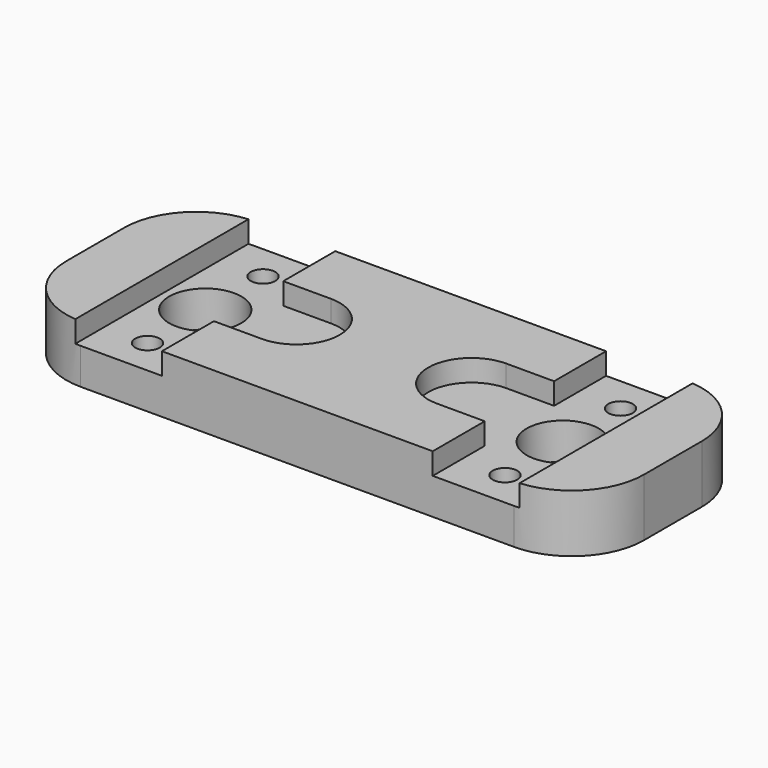
from build123d import *

# Parameters (mm, degrees)
F0_W     = 80
F0_H     = 30
F1_DEPTH = 4
F3_DEPTH = 3
F4_R     = 5
F4_R_2   = 1.7
F5_DEPTH = 5.001
F6_R     = 10


with BuildPart() as f1:
    # F0 (on Top) → F1 (new body, symmetric)
    with BuildSketch(Plane.XY):
        Rectangle(F0_W, F0_H)
    extrude(amount=F1_DEPTH, both=True)

    # F2 (on face) → F3 (cut)
    with BuildSketch(Plane.XY.offset(4)):
        with BuildLine():
            Line((-18.75, 15), (-30.75, 15))
            Line((-30.75, 15), (-30.75, 7.605669))
            Line((-30.75, 7.605669), (-30.75, -15))
            Line((-30.75, -15), (-18.75, -15))
            Line((-18.75, -15), (-18.75, -6))
            Line((-18.75, -6), (-12.123867, -6))
            ThreePointArc((-12.123867, -6), (-6.123867, 0), (-12.123867, 6))
            Line((-12.123867, 6), (-18.75, 6))
            Line((-18.75, 6), (-18.75, 15))
        make_face()
        with BuildLine():
            Line((30.75, -15), (30.75, 15))
            Line((30.75, 15), (18.75, 15))
            Line((18.75, 15), (18.75, 6))
            Line((18.75, 6), (12.123867, 6))
            ThreePointArc((12.123867, 6), (6.123867, 0), (12.123867, -6))
            Line((12.123867, -6), (18.75, -6))
            Line((18.75, -6), (18.75, -15))
            Line((18.75, -15), (30.75, -15))
        make_face()
    extrude(amount=-F3_DEPTH, mode=Mode.SUBTRACT)

    # F4 (on face) → F5 (cut, through all)
    with BuildSketch(Plane.XY.offset(1)):
        with Locations((-24.75, 0)):
            Circle(F4_R)
        with Locations((-24.75, 10)):
            Circle(F4_R_2)
        with Locations((-24.75, -10)):
            Circle(F4_R_2)
        with Locations((24.75, 10)):
            Circle(F4_R_2)
        with Locations((24.75, 0)):
            Circle(F4_R)
        with Locations((24.75, -10)):
            Circle(F4_R_2)
    extrude(amount=-F5_DEPTH, mode=Mode.SUBTRACT)

    # F6
    f6_edges = [f1.edges().sort_by_distance(p)[0] for p in [
        (-40, 15, 0),
        (-40, -15, 0),
        (40, 15, 0),
        (40, -15, 0),
    ]]
    fillet(f6_edges, radius=F6_R)


solid = f1.part
